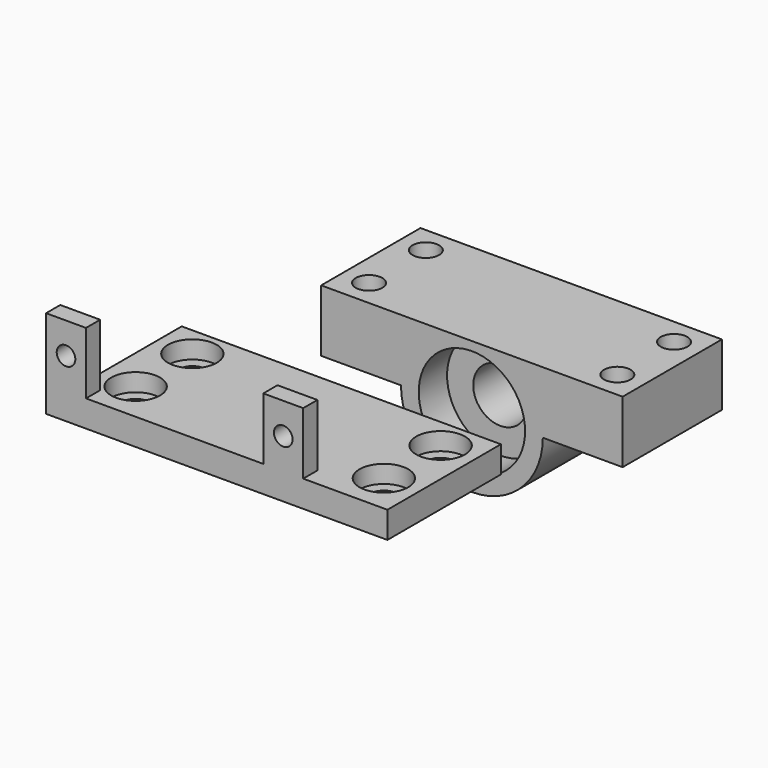
from build123d import *

# Parameters (mm, degrees)
F0_R           = 3.05
F1_DEPTH       = 14
F2_R           = 6
F3_DEPTH       = 4
F4_R           = 6
F5_DEPTH       = 4
F6_R           = 1.5
F7_DEPTH       = 15.001
F8_W           = 36
F8_H           = 16
F8_R           = 1.5
F9_DEPTH       = 3
F10_R          = 2.75
F11_DEPTH      = 2
F12_W          = 4.5
F12_H          = 2
F13_DEPTH      = 7
F13_DEPTH_BACK = 3
F14_R          = 1.05
F15_DEPTH      = 49.625559


with BuildPart() as f1:
    # F0 (on Front) → F1 (new body)
    with BuildSketch(Plane.XZ):
        with BuildLine():
            Line((-65.828289, -7.897141), (-56.828289, -7.897141))
            ThreePointArc((-56.828289, -7.897141), (-48.828289, -15.897141), (-40.828289, -7.897141))
            Line((-40.828289, -7.897141), (-31.828289, -7.897141))
            Line((-31.828289, -7.897141), (-31.828289, -0.897141))
            Line((-31.828289, -0.897141), (-65.828289, -0.897141))
            Line((-65.828289, -0.897141), (-65.828289, -7.897141))
        make_face()
        with Locations((-48.828289, -7.897141)):
            Circle(F0_R, mode=Mode.SUBTRACT)
    extrude(amount=F1_DEPTH)

    # F2 (on face) → F3 (cut)
    with BuildSketch(Plane.XZ.offset(14)):
        with Locations((-48.828289, -7.897141)):
            Circle(F2_R)
    extrude(amount=-F3_DEPTH, mode=Mode.SUBTRACT)

    # F4 (on face) → F5 (cut)
    with BuildSketch(Plane(origin=(0, 0, 0), x_dir=(-1, 0, 0), z_dir=(0, 1, 0))):
        with Locations((48.828289, -7.897141)):
            Circle(F4_R)
    extrude(amount=-F5_DEPTH, mode=Mode.SUBTRACT)

    # F6 (on face) → F7 (cut, through all)
    with BuildSketch(Plane.XY.offset(-0.897141)):
        with Locations((-62.828289, -3)):
            Circle(F6_R)
        with Locations((-34.828289, -3)):
            Circle(F6_R)
        with Locations((-34.828289, -11)):
            Circle(F6_R)
        with Locations((-62.828289, -11)):
            Circle(F6_R)
    extrude(amount=-F7_DEPTH, mode=Mode.SUBTRACT)


with BuildPart() as f9:
    # F8 (on Top) → F9 (new body)
    with BuildSketch(Plane.XY):
        with Locations((-47.856896, -41.624559)):
            Rectangle(F8_W, F8_H)
        with Locations((-61.856896, -45.124559)):
            Circle(F8_R, mode=Mode.SUBTRACT)
        with Locations((-33.856896, -45.124559)):
            Circle(F8_R, mode=Mode.SUBTRACT)
        with Locations((-61.856896, -37.124559)):
            Circle(F8_R, mode=Mode.SUBTRACT)
        with Locations((-33.856896, -37.124559)):
            Circle(F8_R, mode=Mode.SUBTRACT)
    extrude(amount=F9_DEPTH)

    # F10 (on face) → F11 (cut)
    with BuildSketch(Plane.XY.offset(3)):
        with Locations((-61.856896, -37.124559)):
            Circle(F10_R)
        with Locations((-33.856896, -37.124559)):
            Circle(F10_R)
        with Locations((-61.856896, -45.124559)):
            Circle(F10_R)
        with Locations((-33.856896, -45.124559)):
            Circle(F10_R)
    extrude(amount=-F11_DEPTH, mode=Mode.SUBTRACT)

    # F12 (on face) → F13 (join, two sides)
    with BuildSketch(Plane.XY.offset(3)) as f13_sk:
        with Locations((-41.606896, -48.624559)):
            Rectangle(F12_W, F12_H)
        with Locations((-66.106896, -48.624559)):
            Rectangle(F12_W, F12_H)
    extrude(amount=F13_DEPTH)
    extrude(f13_sk.sketch, amount=-F13_DEPTH_BACK)

    # F14 (on face) → F15 (cut, through all)
    with BuildSketch(Plane.XZ.offset(49.624559)):
        with Locations((-41.606896, 6.5)):
            Circle(F14_R)
        with Locations((-66.106896, 6.5)):
            Circle(F14_R)
    extrude(amount=-F15_DEPTH, mode=Mode.SUBTRACT)


solid = Compound([f1.part, f9.part])
